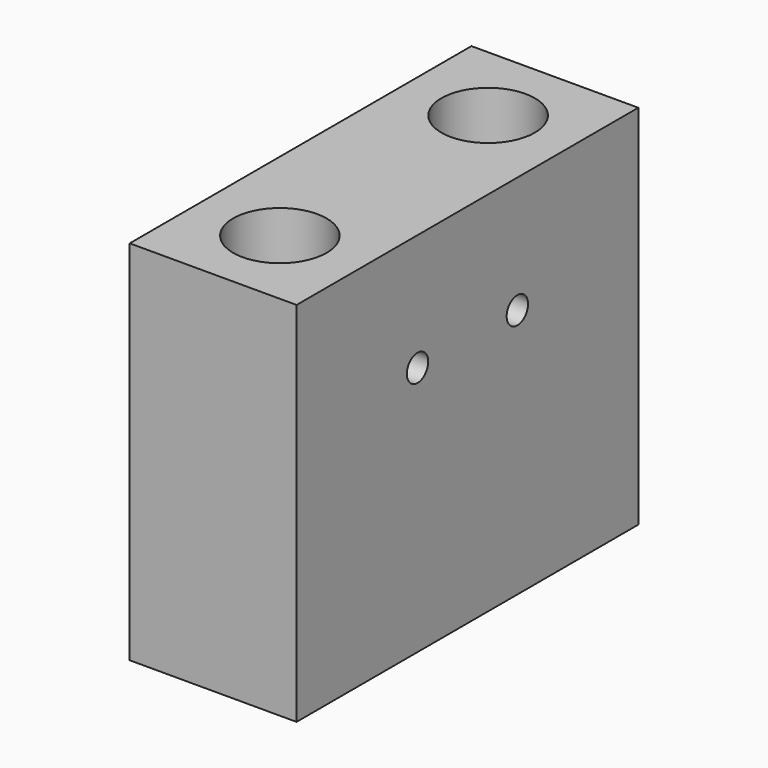
from build123d import *

# Parameters (mm, degrees)
F0_W     = 32.512
F0_H     = 27.94
F1_DEPTH = 12.7
F2_R     = 1.016
F3_DEPTH = 12.701
F5_DEPTH = 1.651
F6_R     = 1.905
F7_DEPTH = 27.941
F8_R     = 3.556
F9_DEPTH = 18.415


with BuildPart() as f1:
    # F0 (on Right) → F1 (new body)
    with BuildSketch(Plane.YZ):
        with Locations((0, 4.445)):
            Rectangle(F0_W, F0_H)
    extrude(amount=F1_DEPTH)

    # F2 (on face) → F3 (cut, through all)
    with BuildSketch(Plane(origin=(0, 0, 0), x_dir=(0, -1, 0), z_dir=(-1, 0, 0))):
        with Locations((4.7498, 9.525)):
            Circle(F2_R)
        with Locations((-4.7498, 9.525)):
            Circle(F2_R)
    extrude(amount=-F3_DEPTH, mode=Mode.SUBTRACT)

    # F4 (on face) → F5 (cut)
    with BuildSketch(Plane(origin=(0, 0, 0), x_dir=(0, -1, 0), z_dir=(-1, 0, 0))):
        Polygon((-1.96794, 9.682093), (-3.494916, 12.012708), (-6.276777, 11.855615), (-7.53166, 9.367907), (-6.004684, 7.037292), (-3.222823, 7.194385), align=None)
        Polygon((6.142946, 11.938), (3.356654, 11.938), (1.963508, 9.525), (3.356654, 7.112), (6.142946, 7.112), (7.536092, 9.525), align=None)
    extrude(amount=-F5_DEPTH, mode=Mode.SUBTRACT)

    # F6 (on face) → F7 (cut, through all)
    with BuildSketch(Plane.XY.offset(18.415)):
        with Locations((6.35, -9.906)):
            Circle(F6_R)
        with Locations((6.35, 9.906)):
            Circle(F6_R)
    extrude(amount=-F7_DEPTH, mode=Mode.SUBTRACT)

    # F8 (on face) → F9 (cut)
    with BuildSketch(Plane.XY.offset(18.415)):
        with Locations((6.35, 9.906)):
            Circle(F8_R)
        with Locations((6.35, -9.906)):
            Circle(F8_R)
    extrude(amount=-F9_DEPTH, mode=Mode.SUBTRACT)


solid = f1.part
